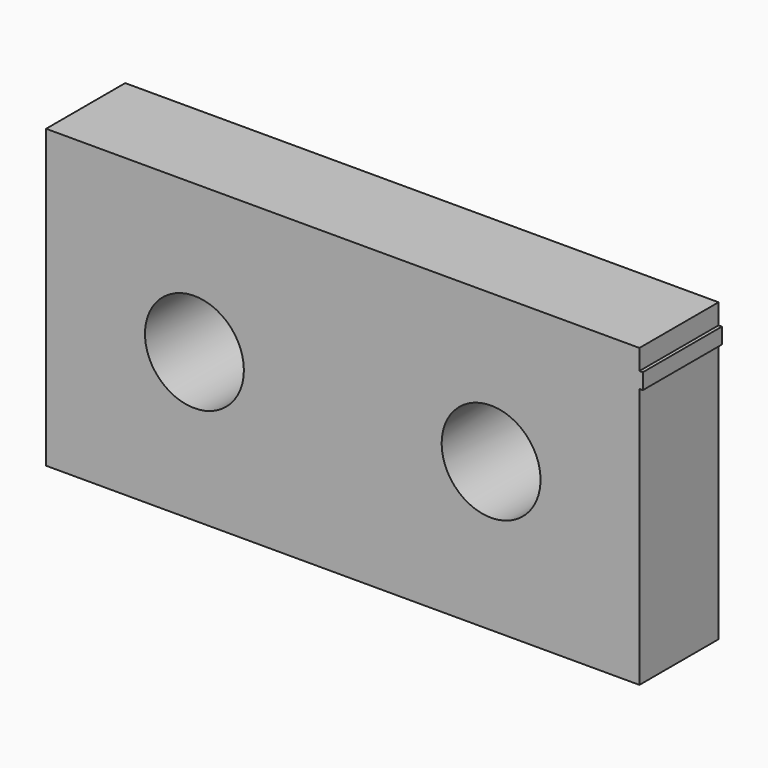
from build123d import *

# Parameters (mm, degrees)
F0_R     = 12.7
F0_W     = 0.8691977903
F0_H     = 4.0562712206
F1_DEPTH = 25.4


with BuildPart() as f1:
    # F0 (on Front) → F1 (new body)
    with BuildSketch(Plane.XZ):
        Polygon((76.2, 32.8847909593), (76.2, 38.1), (-76.2, 38.1), (-76.2, -38.1), (76.2, -38.1), (76.2, 28.8285197387), (75.3308022097, 28.8285197387), (75.3308022097, 32.8847909593), align=None)
        with Locations((-38.1, 0)):
            Circle(F0_R, mode=Mode.SUBTRACT)
        with BuildLine():
            ThreePointArc((50.8, 0), (38.1, -12.7), (25.4, 0))
            ThreePointArc((25.4, 0), (38.1, 12.7), (50.8, 0))
        make_face(mode=Mode.SUBTRACT)
        with Locations((76.6345988951, 30.856655349)):
            Rectangle(F0_W, F0_H)
        with Locations((75.7654011049, 30.856655349)):
            Rectangle(F0_W, F0_H)
    extrude(amount=F1_DEPTH)


solid = f1.part
